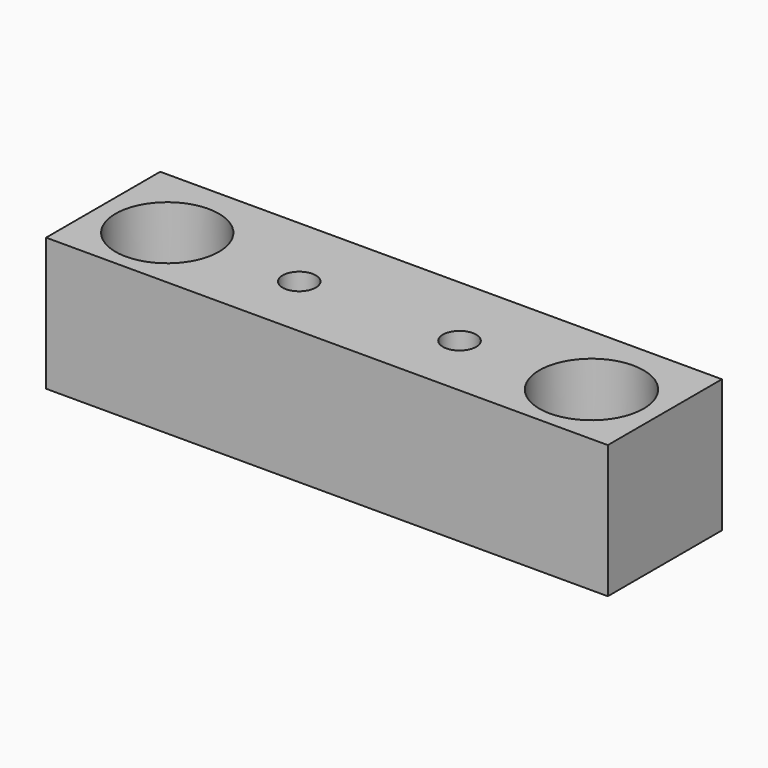
from build123d import *

# Parameters (mm, degrees)
F0_R     = 1.7
F0_R_2   = 0.75
F1_DEPTH = 6
F2_R     = 2.330452
F2_R_2   = 1.7
F2_R_3   = 2.349172
F3_DEPTH = 3
F4_R     = 2.25
F4_R_2   = 0.75
F5_DEPTH = 2.6


with BuildPart() as f1:
    # F0 (on Top) → F1 (new body)
    with BuildSketch(Plane.XY):
        Polygon((12.663894, 0), (12.663894, 3.477627), (-12.663894, 3.477627), (-12.663894, -2.954399), (12.663894, -2.954399), align=None)
        with Locations((-9.565, 0)):
            Circle(F0_R, mode=Mode.SUBTRACT)
        with Locations((-3.615, 0)):
            Circle(F0_R_2, mode=Mode.SUBTRACT)
        with Locations((3.615, 0)):
            Circle(F0_R_2, mode=Mode.SUBTRACT)
        with Locations((9.565, 0)):
            Circle(F0_R, mode=Mode.SUBTRACT)
    extrude(amount=F1_DEPTH)

    # F2 (on face) → F3 (cut)
    with BuildSketch(Plane.XY.offset(6)):
        with Locations((-9.565, 0)):
            Circle(F2_R)
        with Locations((-9.565, 0)):
            Circle(F2_R_2, mode=Mode.SUBTRACT)
        with Locations((9.565, 0)):
            Circle(F2_R_3)
        with Locations((9.565, 0)):
            Circle(F2_R_2, mode=Mode.SUBTRACT)
    extrude(amount=-F3_DEPTH, mode=Mode.SUBTRACT)

    # F4 (on face) → F5 (cut)
    with BuildSketch(Plane(origin=(0, 0, 0), x_dir=(1, 0, 0), z_dir=(0, 0, -1))):
        with Locations((-3.615, 0)):
            Circle(F4_R)
        with Locations((-3.615, 0)):
            Circle(F4_R_2, mode=Mode.SUBTRACT)
        with Locations((3.615, 0)):
            Circle(F4_R)
        with Locations((3.615, 0)):
            Circle(F4_R_2, mode=Mode.SUBTRACT)
        with Locations((3.615, 0)):
            Circle(F4_R)
        with Locations((3.615, 0)):
            Circle(F4_R_2, mode=Mode.SUBTRACT)
        with Locations((-3.615, 0)):
            Circle(F4_R)
        with Locations((-3.615, 0)):
            Circle(F4_R_2, mode=Mode.SUBTRACT)
    extrude(amount=-F5_DEPTH, mode=Mode.SUBTRACT)


solid = f1.part
